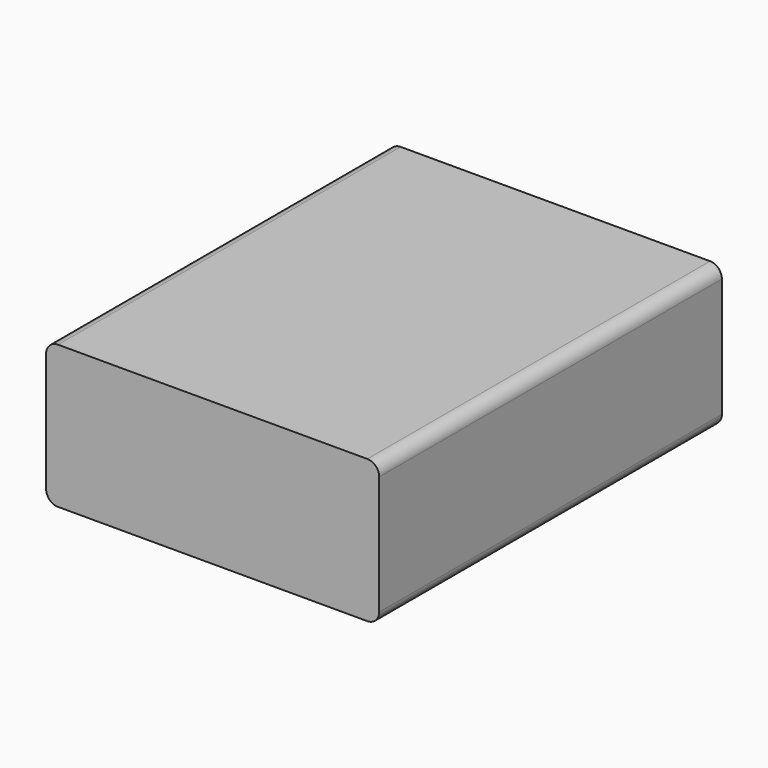
from build123d import *

# Parameters (mm, degrees)
F1_DEPTH = 57.15


with BuildPart() as f1:
    # F0 (on Front) → F1 (new body, symmetric)
    with BuildSketch(Plane.XZ):
        with BuildLine():
            ThreePointArc((44.45, 15.875), (43.520064, 18.120064), (41.275, 19.05))
            Line((41.275, 19.05), (-41.275, 19.05))
            ThreePointArc((-41.275, 19.05), (-43.520064, 18.120064), (-44.45, 15.875))
            Line((-44.45, 15.875), (-44.45, -15.875))
            ThreePointArc((-44.45, -15.875), (-43.520064, -18.120064), (-41.275, -19.05))
            Line((-41.275, -19.05), (41.275, -19.05))
            ThreePointArc((41.275, -19.05), (43.520064, -18.120064), (44.45, -15.875))
            Line((44.45, -15.875), (44.45, 15.875))
        make_face()
    extrude(amount=F1_DEPTH, both=True)


solid = f1.part
